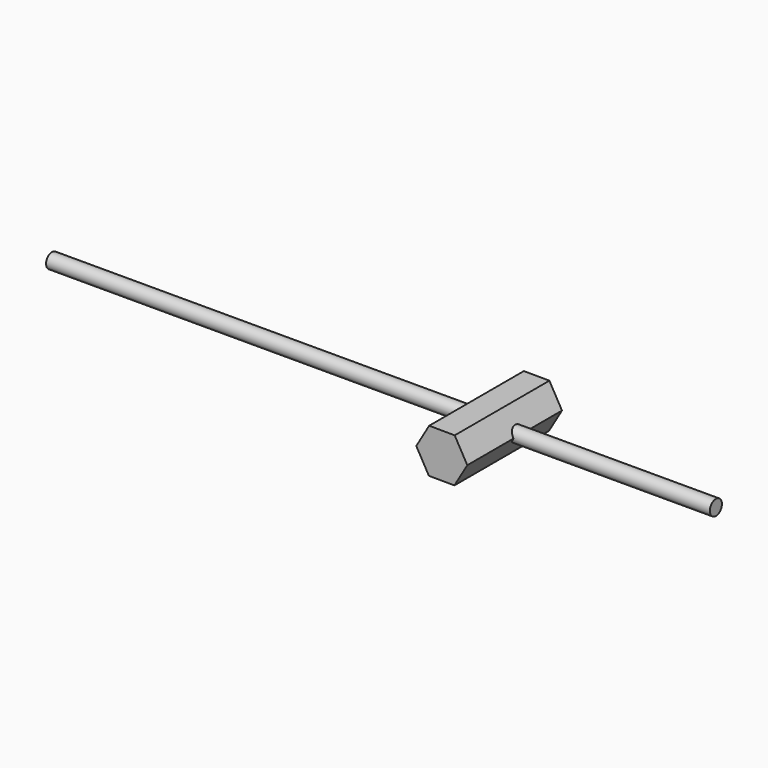
from build123d import *

# Parameters (mm, degrees)
F1_DEPTH = 406.4
F2_R     = 25.88143
F3_DEPTH = 762
F4_R     = 25.4
F5_DEPTH = 1524
F6_R     = 25.67789
F7_DEPTH = 45.72


with BuildPart() as f1:
    # F0 (on Front) → F1 (new body)
    with BuildSketch(Plane.XZ):
        Polygon((43.292664, -76.169349), (87.610923, -0.592128), (44.318259, 75.577221), (-43.292664, 76.169349), (-87.610923, 0.592128), (-44.318259, -75.577221), align=None)
    extrude(amount=F1_DEPTH)

    # F2 (on Right) → F3 (join)
    with BuildSketch(Plane.YZ):
        with Locations((-182.547286, 0)):
            Circle(F2_R)
    extrude(amount=F3_DEPTH)

    # F4 (on Right) → F5 (join)
    with BuildSketch(Plane.YZ):
        with Locations((-174.269957, 0)):
            Circle(F4_R)
    extrude(amount=-F5_DEPTH)

    # F6 (on Front) → F7 (join)
    with BuildSketch(Plane.XZ):
        Circle(F6_R)
    extrude(amount=-F7_DEPTH)


solid = f1.part
